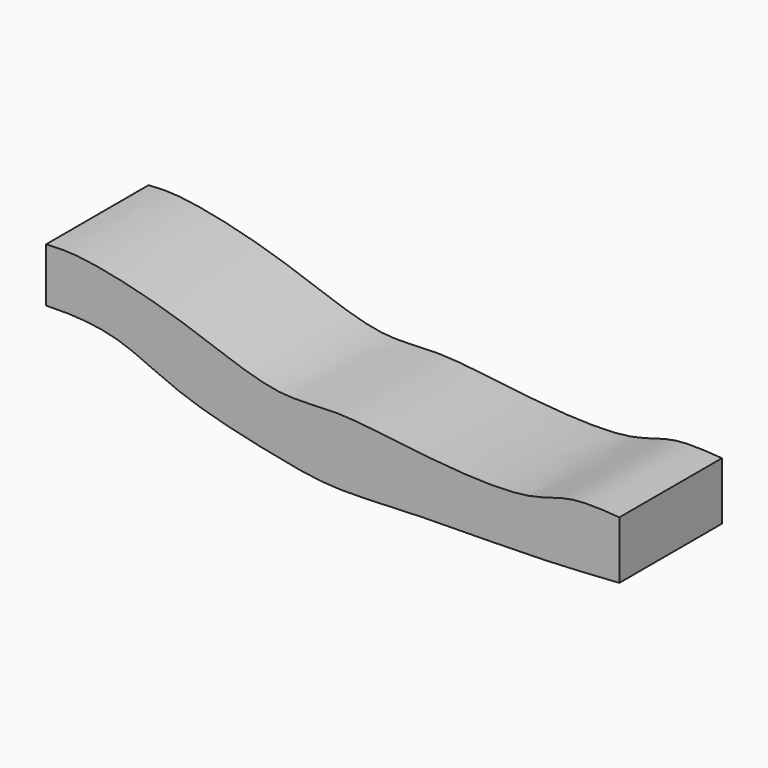
from build123d import *

# Parameters (mm, degrees)
F1_DEPTH = 25.4


with BuildPart() as f1:
    # F0 (on Front) → F1 (new body)
    with BuildSketch(Plane.XZ):
        with BuildLine():
            Line((-57.1499988437, 10.6925815344), (-57.1499988437, 0))
            add(Edge.make_bspline(
                [(-57.1499988437, 0), (-55.4885156161, 0.0444233277), (-51.6315668651, 0.1475471482), (-41.8413506961, -0.889411855), (-30.3647397024, -7.4276576538), (-11.5583975759, -11.5353506602), (0.0126595096, -13.6161598141), (15.7866974951, -12.4428544431), (38.7625825957, -12.6044742842), (50.8003947227, -11.8034494614), (56.4125850797, -11.4300008863)],
                knots=[0, 0, 0, 0, 0.0775785708, 0.1800900344, 0.3036284732, 0.4500635233, 0.5649864482, 0.6970381745, 0.8587551112, 1, 1, 1, 1], degree=3))
            Line((56.4125850797, -11.4300008863), (56.4125850797, 0))
            add(Edge.make_bspline(
                [(-57.1499988437, 10.6925815344), (-55.383333522, 10.7946080817), (-50.9997438327, 11.0477644184), (-37.966970254, 8.4144701841), (-25.6716381399, 4.4667370362), (-11.1579380589, -1.1120246884), (0.3056723342, 0.6289615264), (15.2267001169, -1.6897206154), (37.6537811554, -3.5152937499), (46.2447516096, 0.7380041428), (52.9955465075, 0.2480163183), (56.4125850797, 0)],
                knots=[0, 0, 0, 0, 0.0764980952, 0.1898131226, 0.3064024678, 0.428350673, 0.5331000369, 0.6573212505, 0.8055003476, 0.901550436, 1, 1, 1, 1], degree=3))
        make_face()
    extrude(amount=F1_DEPTH)


solid = f1.part
